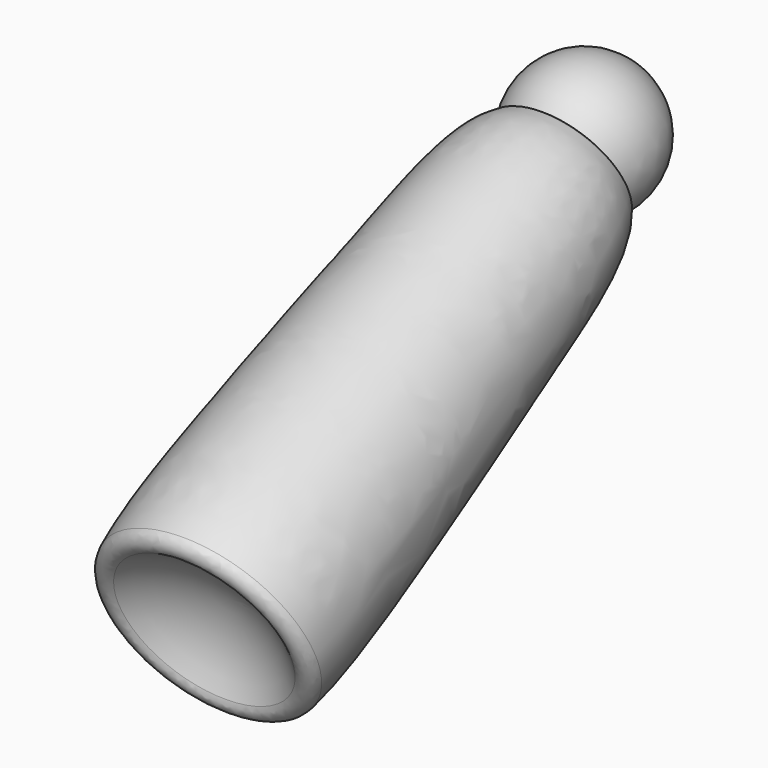
from build123d import *

# Parameters (mm, degrees)
FILLET064_R             = 6
FILLET065_R             = 3
BODY040_ROLL_ANGLE      = 177.30561
BODY040_PITCH_ANGLE     = -23.812555
BODY040_PLACEMENT_ANGLE = 92.701681


with BuildPart() as part:
    # Sketch135 → Revolution070 (revolve)
    with BuildSketch(Plane.XY):
        with BuildLine():
            Line((15.9442, 0), (306.848053, 0))
            add(Edge.make_bspline(
                [(306.848053, 0), (324.317413, 42.311157), (231.745069, 46.553256), (127.654996, 54.056504), (-18.918443, 56.908137), (15.9442, 0)],
                knots=[0, 0, 0, 0, 0.333333, 0.666667, 1, 1, 1, 1], degree=3))
        make_face()
    revolve(axis=Axis((0, 0, 0), (1, 0, 0)))

    # Sketch136 → Groove063 (revolve, cut)
    with BuildSketch(Plane.XY):
        with BuildLine():
            Line((-60, 0), (60, 0))
            ThreePointArc((60, 0), (0, 60), (-60, 0))
        make_face()
    revolve(axis=Axis((0, 0, 0), (1, 0, 0)), mode=Mode.SUBTRACT)

    # Fillet064
    fillet064_edges = [part.edges().sort_by_distance(p)[0] for p in [
        (33.106232, -50.039758, 0),
    ]]
    fillet(fillet064_edges, radius=FILLET064_R)

    # Sketch137 → Groove064 (revolve, cut)
    with BuildSketch(Plane.XY):
        with BuildLine():
            Line((285, 0), (355, 0))
            ThreePointArc((355, 0), (320, 35), (285, 0))
        make_face()
    revolve(axis=Axis((0, 0, 0), (1, 0, 0)), mode=Mode.SUBTRACT)

    # Fillet065
    fillet065_edges = [part.edges().sort_by_distance(p)[0] for p in [
        (304.668851, -31.463564, 0),
    ]]
    fillet(fillet065_edges, radius=FILLET065_R)

    # Sketch137 → Revolution071 (revolve)
    with BuildSketch(Plane.XY):
        with BuildLine():
            Line((285, 0), (355, 0))
            ThreePointArc((355, 0), (320, 35), (285, 0))
        make_face()
    revolve(axis=Axis((0, 0, 0), (1, 0, 0)))


with BuildPart() as part_1:
    # Body040 roll: moved
    add(part.part.rotate(Axis((0, 0, 0), (1, 0, 0)), BODY040_ROLL_ANGLE))


with BuildPart() as part_2:
    # Body040 pitch: moved
    add(part_1.part.rotate(Axis((0, 0, 0), (0, 1, 0)), BODY040_PITCH_ANGLE))


with BuildPart() as part_3:
    # Body040 placement: moved
    add(part_2.part.moved(Location((-184, 1453.861755, 9.357312))).rotate(Axis((-184, 1453.861755, 9.357312), (0, 0, 1)), BODY040_PLACEMENT_ANGLE))


solid = part_3.part
